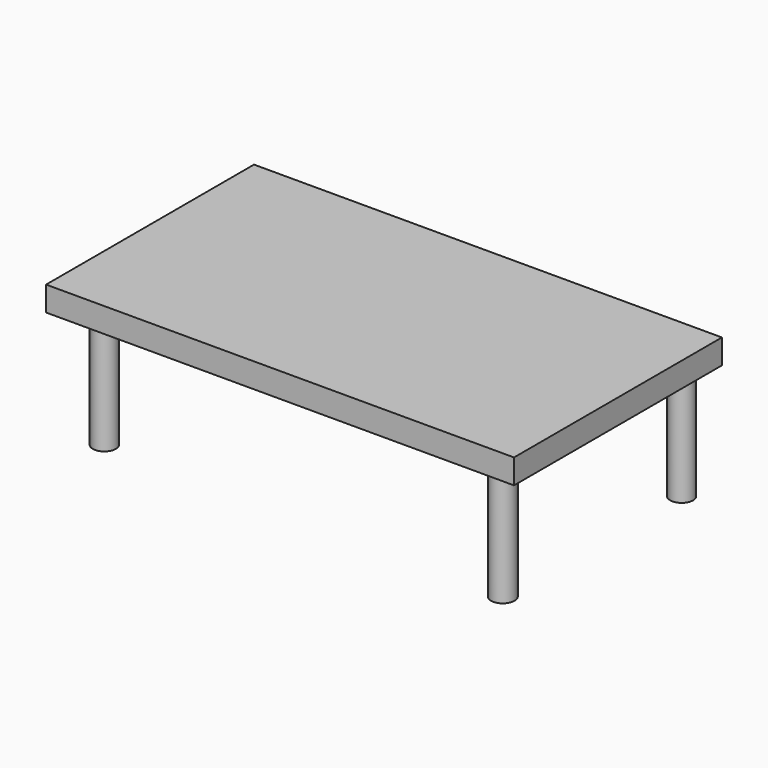
from build123d import *

# Parameters (mm, degrees)
F0_W     = 120.770454
F0_H     = 67.07308
F1_DEPTH = 6.35
F2_R     = 2.980952
F2_R_2   = 2.927717
F2_R_3   = 3.026762
F2_R_4   = 2.947793
F3_DEPTH = 29.718


with BuildPart() as f1:
    # F0 (on Top) → F1 (new body)
    with BuildSketch(Plane.XY):
        with Locations((36.320329, -11.713231)):
            Rectangle(F0_W, F0_H)
    extrude(amount=F1_DEPTH)

    # F2 (on face) → F3 (join)
    with BuildSketch(Plane(origin=(0, 0, 0), x_dir=(1, 0, 0), z_dir=(0, 0, -1))):
        with Locations((-14.533469, 38.369108)):
            Circle(F2_R)
        with Locations((-13.542018, -14.376022)):
            Circle(F2_R_2)
        with Locations((89.568764, 39.955426)):
            Circle(F2_R_3)
        with Locations((90.361923, -16.755503)):
            Circle(F2_R_4)
    extrude(amount=F3_DEPTH)


solid = f1.part
